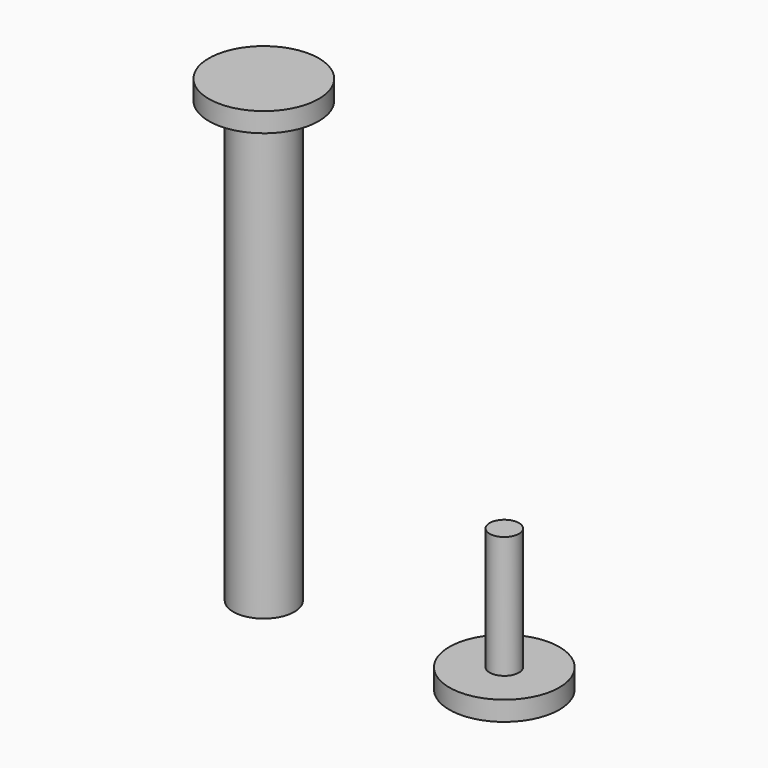
from build123d import *

# Parameters (mm, degrees)
F0_R      = 1.25
F1_DEPTH  = 18
F2_R      = 2.25
F3_DEPTH  = 0.8
F5_R      = 0.75
F6_DEPTH  = 5
F7_R      = 2.25
F8_DEPTH  = 0.8
F9_R      = 0.6
F10_DEPTH = 5


with BuildPart() as f1:
    # F0 (on Top) → F1 (new body)
    with BuildSketch(Plane.XY):
        Circle(F0_R)
    extrude(amount=F1_DEPTH)

    # F2 (on face) → F3 (join)
    with BuildSketch(Plane.XY.offset(18)):
        Circle(F2_R)
        with BuildLine():
            ThreePointArc((0, -1.25), (-1.25, 0), (0, 1.25))
            ThreePointArc((0, 1.25), (0.8838834765, 0.8838834765), (1.25, 0))
            ThreePointArc((1.25, 0), (0.8838834765, -0.8838834765), (0, -1.25))
        make_face(mode=Mode.SUBTRACT)
        with BuildLine():
            ThreePointArc((1.25, 0), (0.8838834765, 0.8838834765), (0, 1.25))
            Line((0, 1.25), (0, -1.25))
            ThreePointArc((0, -1.25), (0.8838834765, -0.8838834765), (1.25, 0))
        make_face()
        with BuildLine():
            Line((0, -1.25), (0, 1.25))
            ThreePointArc((0, 1.25), (-1.25, 0), (0, -1.25))
        make_face()
    extrude(amount=F3_DEPTH)

    # F5 (on face) → F6 (cut)
    with BuildSketch(Plane(origin=(0, 0, 0), x_dir=(1, 0, 0), z_dir=(0, 0, -1))):
        Circle(F5_R)
    extrude(amount=-F6_DEPTH, mode=Mode.SUBTRACT)


with BuildPart() as f8:
    # F7 (on Top) → F8 (new body)
    with BuildSketch(Plane.XY):
        with Locations((9.8385168239, 0)):
            Circle(F7_R)
    extrude(amount=F8_DEPTH)

    # F9 (on face) → F10 (join)
    with BuildSketch(Plane.XY.offset(0.8)):
        with Locations((9.8385168239, 0)):
            Circle(F9_R)
    extrude(amount=F10_DEPTH)


solid = Compound([f1.part, f8.part])
